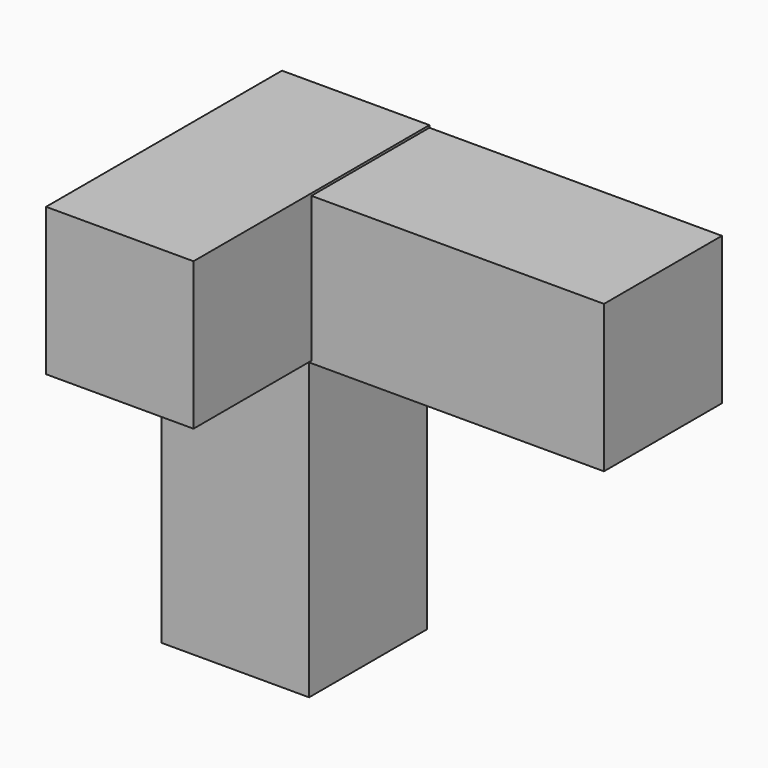
from build123d import *

# Parameters (mm, degrees)
F1_W     = 19.05
F1_H     = 19.05
F2_DEPTH = 38.1
F0_W     = 19.05
F0_H     = 38.1
F3_DEPTH = 19.05


with BuildPart() as f2:
    # F1 (on face) → F2 (new body)
    with BuildSketch(Plane.XZ):
        with Locations((-18.745197, 0.301171)):
            Rectangle(F1_W, F1_H)
    extrude(amount=F2_DEPTH)

    # F0 (on Front) → F3 (join)
    with BuildSketch(Plane.XZ):
        Polygon((28.575, -9.525), (28.575, 9.525), (-28.575, 9.525), (-28.575, -9.525), (-9.525, -9.525), align=None)
        with Locations((-19.05, -28.575)):
            Rectangle(F0_W, F0_H)
    extrude(amount=F3_DEPTH)


solid = f2.part
